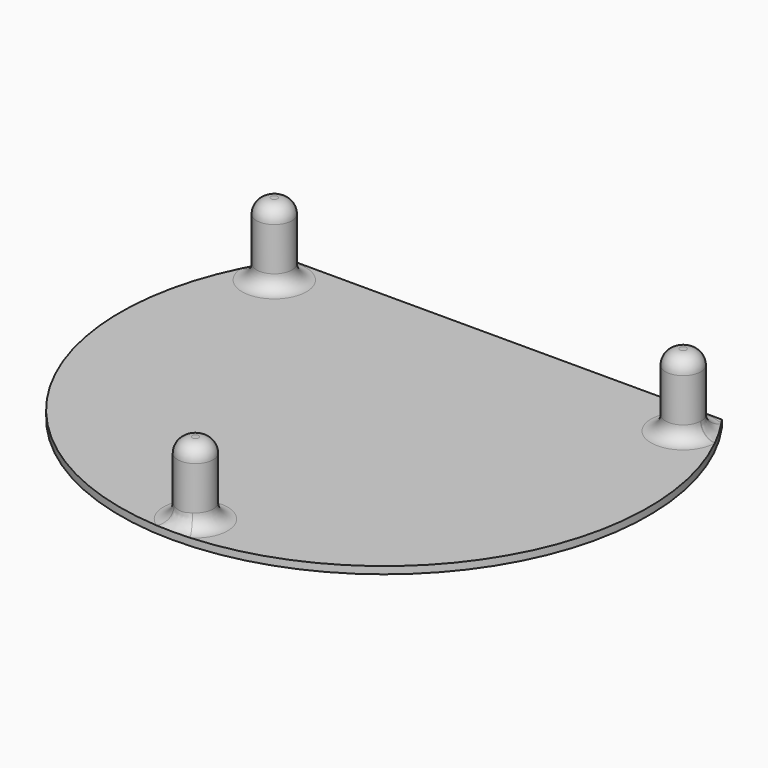
from build123d import *

# Parameters (mm, degrees)
F1_DEPTH = 1
F2_R     = 2.45
F3_DEPTH = 10
F4_R     = 2


with BuildPart() as f1:
    # F0 (on Top) → F1 (new body)
    with BuildSketch(Plane.XY):
        with BuildLine():
            Line((29.85381, 21), (-29.85381, 21))
            ThreePointArc((-29.85381, 21), (0, -36.5), (29.85381, 21))
        make_face()
    extrude(amount=F1_DEPTH)

    # F2 (on face) → F3 (join)
    with BuildSketch(Plane.XY.offset(1)):
        with Locations((-28.25381, 16.312345)):
            Circle(F2_R)
        with Locations((28.25381, 16.312345)):
            Circle(F2_R)
        with Locations((0, -32.62469)):
            Circle(F2_R)
    extrude(amount=F3_DEPTH)

    # F4
    f4_edges = [f1.edges().sort_by_distance(p)[0] for p in [
        (-30.70381, 16.312345, 11),
        (25.80381, 16.312345, 11),
        (-2.45, -32.62469, 11),
        (-30.70381, 16.312345, 1),
        (25.80381, 16.312345, 1),
        (-2.45, -32.62469, 1),
    ]]
    fillet(f4_edges, radius=F4_R)


solid = f1.part
